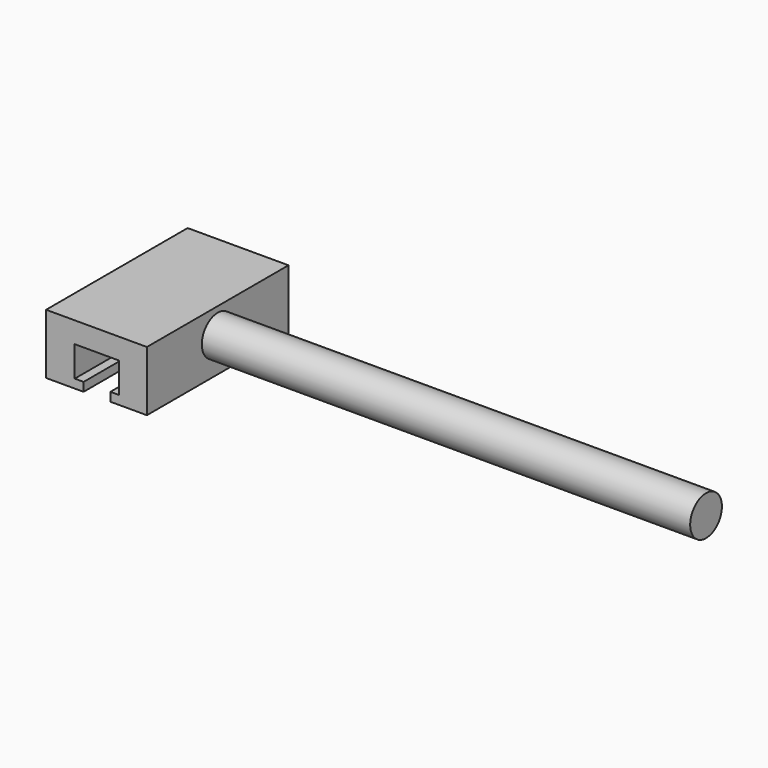
from build123d import *

# Parameters (mm, degrees)
F1_DEPTH = 25.4
F2_DEPTH = 4.572
F3_R     = 2.8483502815
F4_DEPTH = 70.104
F5_DEPTH = 1.27
F6_W     = 25.4
F6_H     = 1.2553478565
F8_DEPTH = 1.27
F7_W     = 25.4
F7_H     = 1.2564980398
F9_DEPTH = 1.27


with BuildPart() as f1:
    # F0 (on Front) → F1 (new body)
    with BuildSketch(Plane.XZ):
        Polygon((0, 11.9274239987), (0, 0), (4.1132315528, 0), (4.1132315528, 8.9138071053), (10.4970876127, 8.9138071053), (10.4970876127, 0), (14.4736012444, 0), (14.4736012444, 11.9274239987), align=None)
    extrude(amount=F1_DEPTH)

    # F2 (cut): faces of the model
    f2_faces = [f1.faces().sort_by_distance(p)[0] for p in [
        (2.0566157764, -12.7, 0),
        (12.4853444286, -12.7, 0),
    ]]
    extrude(f2_faces, amount=-F2_DEPTH, mode=Mode.SUBTRACT)

    # F3 (on face) → F4 (join)
    with BuildSketch(Plane.YZ.offset(14.4736012444)):
        with Locations((-12.7, 8.2497119994)):
            Circle(F3_R)
    extrude(amount=F4_DEPTH)

    # F5 (add): faces of the model
    f5_faces = [f1.faces().sort_by_distance(p)[0] for p in [
        (12.4853444286, -12.7, 4.572),
        (2.0566157764, -12.7, 4.572),
    ]]
    extrude(f5_faces, amount=F5_DEPTH)

    # F6 (on face) → F8 (join)
    with BuildSketch(Plane(origin=(10.4970876127, 0, 0), x_dir=(0, -1, 0), z_dir=(-1, 0, 0))):
        with Locations((12.7, 3.9296739282)):
            Rectangle(F6_W, F6_H)
    extrude(amount=F8_DEPTH)

    # F7 (on face) → F9 (join)
    with BuildSketch(Plane.YZ.offset(4.1132315528)):
        with Locations((-12.7, 3.9302490199)):
            Rectangle(F7_W, F7_H)
    extrude(amount=F9_DEPTH)


solid = f1.part
